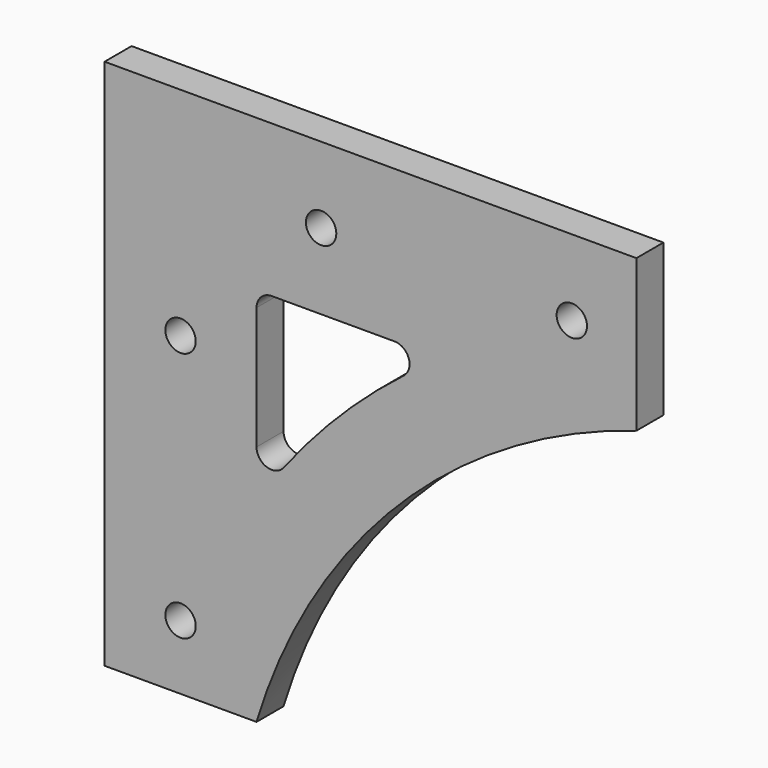
from build123d import *

# Parameters (mm, degrees)
F1_DEPTH = 4.445
F2_R     = 2
F3_DEPTH = 4.446


with BuildPart() as f1:
    # F0 (on Front) → F1 (new body)
    with BuildSketch(Plane.XZ):
        with BuildLine():
            Line((-91.770717, 21.770717), (-71.770717, 21.770717))
            ThreePointArc((-71.770717, 21.770717), (-53.033009, 53.033009), (-21.770717, 71.770717))
            Line((-21.770717, 71.770717), (-21.770717, 91.770717))
            Line((-21.770717, 91.770717), (-91.770717, 91.770717))
            Line((-91.770717, 91.770717), (-91.770717, 21.770717))
        make_face()
        with BuildLine():
            ThreePointArc((-52.409953, 68.185019), (-60.811183, 60.811183), (-68.185019, 52.409953))
            ThreePointArc((-68.185019, 52.409953), (-70.41438, 51.735195), (-71.770717, 53.628789))
            Line((-71.770717, 53.628789), (-71.770717, 69.770717))
            ThreePointArc((-71.770717, 69.770717), (-71.184931, 71.184931), (-69.770717, 71.770717))
            Line((-69.770717, 71.770717), (-53.628789, 71.770717))
            ThreePointArc((-53.628789, 71.770717), (-51.735195, 70.41438), (-52.409953, 68.185019))
        make_face(mode=Mode.SUBTRACT)
    extrude(amount=F1_DEPTH)

    # F2 (on face) → F3 (cut, through all)
    with BuildSketch(Plane.XZ.offset(4.445)):
        with Locations((-63.270717, 81.770717)):
            Circle(F2_R)
        with Locations((-30.270717, 81.770717)):
            Circle(F2_R)
        with Locations((-81.770717, 63.270717)):
            Circle(F2_R)
        with Locations((-81.770717, 30.270717)):
            Circle(F2_R)
    extrude(amount=-F3_DEPTH, mode=Mode.SUBTRACT)


solid = f1.part
